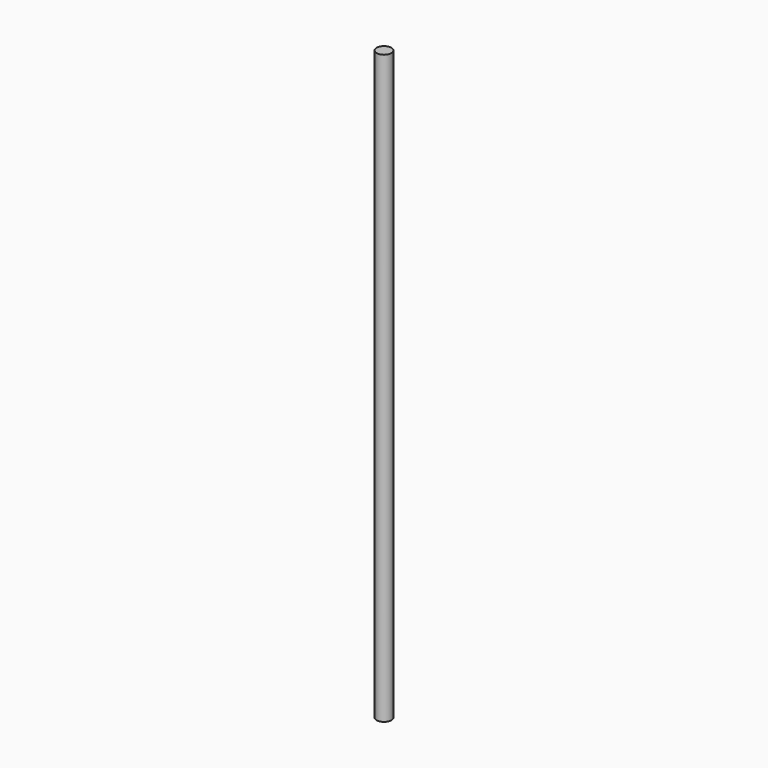
from build123d import *

# Parameters (mm, degrees)
CYLINDER_R     = 4
CYLINDER_DEPTH = 320


with BuildPart() as part:
    # Cylinder → Cylinder (new body)
    with BuildSketch(Plane.XY):
        Circle(CYLINDER_R)
    extrude(amount=CYLINDER_DEPTH)


solid = part.part
